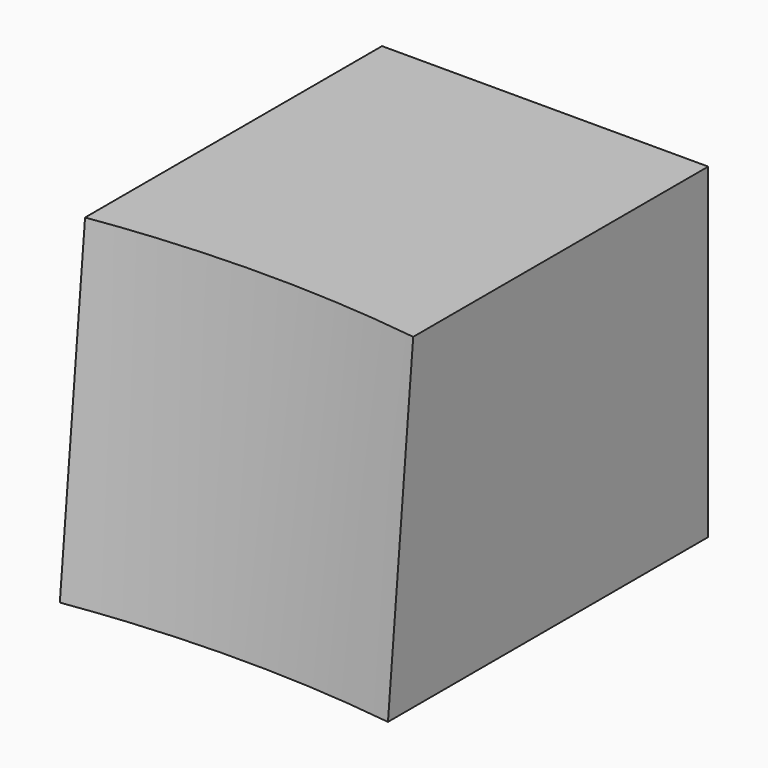
from build123d import *

# Parameters (mm, degrees)
F0_W     = 13
F0_H     = 10
F1_DEPTH = 10
F3_R     = 36
F4_DEPTH = 12.5


with BuildPart() as f1:
    # F0 (on Right) → F1 (new body)
    with BuildSketch(Plane.YZ):
        Rectangle(F0_W, F0_H)
    extrude(amount=F1_DEPTH)

    # F3 (on face) → F4 (cut, symmetric)
    with BuildSketch(Plane(origin=(0, 0.419072, 4.330412), x_dir=(1, 0, 0), z_dir=(0, 0.096324, 0.99535))):
        with Locations((5.268727, -40.951396)):
            Circle(F3_R)
    extrude(amount=F4_DEPTH, both=True, mode=Mode.SUBTRACT)


solid = f1.part
